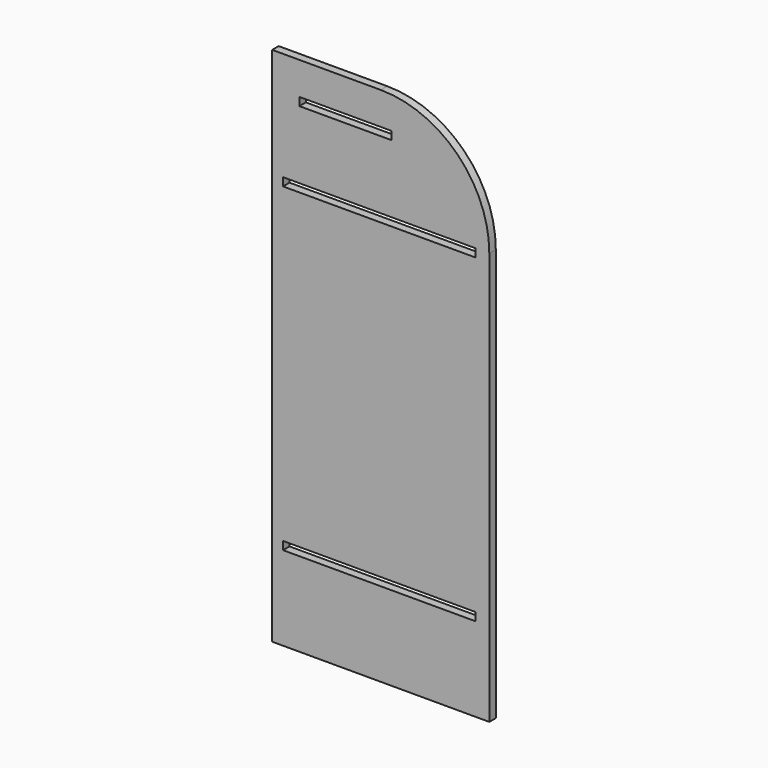
from build123d import *

# Parameters (mm, degrees)
F0_W     = 450.85
F0_H     = 19.05
F0_W_2   = 215.9
F1_DEPTH = 19.05


with BuildPart() as f1:
    # F0 (on Front) → F1 (new body)
    with BuildSketch(Plane.XZ):
        with BuildLine():
            Line((-615.720777, 857.923484), (-615.720777, -361.276516))
            Line((-615.720777, -361.276516), (-107.720777, -361.276516))
            Line((-107.720777, -361.276516), (-107.720777, 603.923484))
            ThreePointArc((-107.720777, 603.923484), (-182.115655, 783.528606), (-361.720777, 857.923484))
            Line((-361.720777, 857.923484), (-615.720777, 857.923484))
        make_face()
        with Locations((-364.895777, -154.901516)):
            Rectangle(F0_W, F0_H, mode=Mode.SUBTRACT)
        with Locations((-364.895777, 594.398484)):
            Rectangle(F0_W, F0_H, mode=Mode.SUBTRACT)
        with Locations((-444.270777, 772.198484)):
            Rectangle(F0_W_2, F0_H, mode=Mode.SUBTRACT)
    extrude(amount=F1_DEPTH)


solid = f1.part
